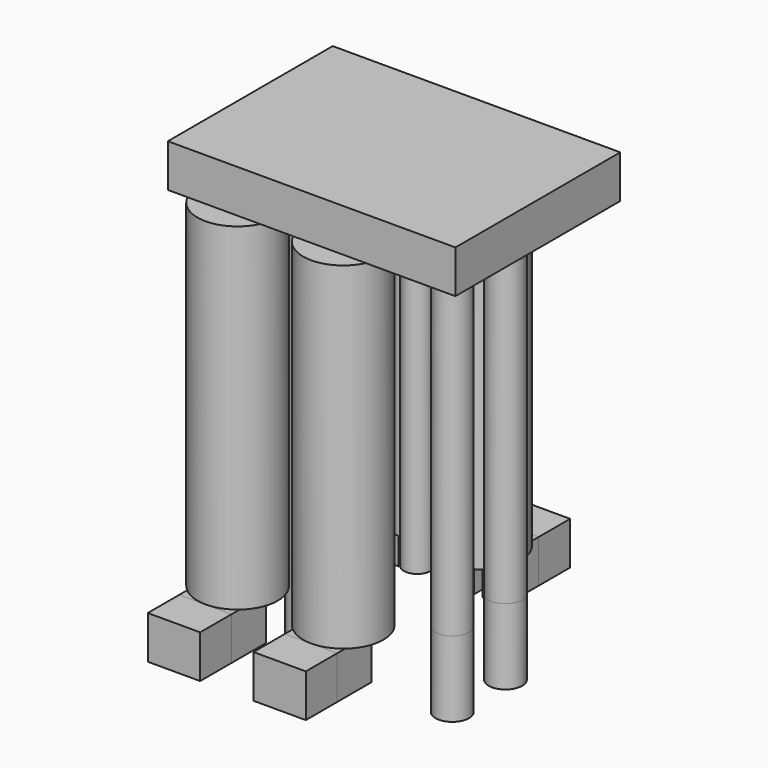
from build123d import *

# Parameters (mm, degrees)
F1_DEPTH = 1.27
F0_W     = 1.5494
F0_H     = 1.161047956
F0_R     = 0.4953
F2_DEPTH = 2.2352
F0_R_2   = 1.18745
F3_DEPTH = 9.9822
F4_DEPTH = 1.27
F5_DEPTH = 1.27
F6_START = 0.9906
F0_R_3   = 0.3937
F6_DEPTH = 8.9916
F8_DEPTH = 1.27
F9_DEPTH = 10.16


with BuildPart() as f1:
    # F0 (on Top) → F1 (new body)
    with BuildSketch(Plane.XY):
        with BuildLine():
            ThreePointArc((-0.1226388703, 3.7211), (0, 3.72745), (0.1226388703, 3.7211))
            Line((0.1226388703, 3.7211), (0.7747, 3.7211))
            Line((0.7747, 3.7211), (0.7747, 4.882147956))
            Line((0.7747, 4.882147956), (-0.7747, 4.882147956))
            Line((-0.7747, 4.882147956), (-0.7747, 3.7211))
            Line((-0.7747, 3.7211), (-0.1226388703, 3.7211))
        make_face()
    extrude(amount=-F1_DEPTH)


with BuildPart() as f1b:
    # F0 (on Top) → F1, piece 2 (new body)
    with BuildSketch(Plane.XY):
        with BuildLine():
            ThreePointArc((3.0045490859, 3.7211), (3.1271879561, 3.72745), (3.2498268264, 3.7211))
            Line((3.2498268264, 3.7211), (3.9018879561, 3.7211))
            Line((3.9018879561, 3.7211), (3.9018879561, 4.882147956))
            Line((3.9018879561, 4.882147956), (2.3524879561, 4.882147956))
            Line((2.3524879561, 4.882147956), (2.3524879561, 3.7211))
            Line((2.3524879561, 3.7211), (3.0045490859, 3.7211))
        make_face()
    extrude(amount=-F1_DEPTH)


with BuildPart() as f1c:
    # F0 (on Top) → F1, piece 3 (new body)
    with BuildSketch(Plane.XY):
        with Locations((0, -4.3142373906)):
            Rectangle(F0_W, F0_H)
    extrude(amount=-F1_DEPTH)


with BuildPart() as f1d:
    # F0 (on Top) → F1, piece 4 (new body)
    with BuildSketch(Plane.XY):
        with Locations((3.1271879561, -4.3142373906)):
            Rectangle(F0_W, F0_H)
    extrude(amount=-F1_DEPTH)


with BuildPart() as f2:
    # F0 (on Top) → F2 (new body)
    with BuildSketch(Plane.XY):
        with Locations((5.1339846104, -1.016)):
            Circle(F0_R)
    extrude(amount=-F2_DEPTH)


with BuildPart() as f2b:
    # F0 (on Top) → F2, piece 2 (new body)
    with BuildSketch(Plane.XY):
        with Locations((5.08, 1.016)):
            Circle(F0_R)
    extrude(amount=-F2_DEPTH)


with BuildPart() as f2c:
    # F0 (on Top) → F2, piece 3 (new body)
    with BuildSketch(Plane.XY):
        Circle(F0_R)
    extrude(amount=-F2_DEPTH)


with BuildPart() as f3:
    # F0 (on Top) → F3 (new body)
    with BuildSketch(Plane.XY):
        with Locations((0, -2.54)):
            Circle(F0_R_2)
        with Locations((3.1271879561, -2.54)):
            Circle(F0_R_2)
        with BuildLine():
            ThreePointArc((3.0045490859, 3.7211), (2.3320747642, 1.6580518641), (4.3146379561, 2.54))
            ThreePointArc((4.3146379561, 2.54), (4.0091360921, 3.3351131919), (3.2498268264, 3.7211))
            Line((3.2498268264, 3.7211), (3.0045490859, 3.7211))
        make_face()
        with BuildLine():
            ThreePointArc((-0.1226388703, 3.7211), (-0.7951131919, 1.6580518641), (1.18745, 2.54))
            ThreePointArc((1.18745, 2.54), (0.8819481359, 3.3351131919), (0.1226388703, 3.7211))
            Line((0.1226388703, 3.7211), (-0.1226388703, 3.7211))
        make_face()
    extrude(amount=F3_DEPTH)


with BuildPart() as f4:
    # F4 (new): a face of the model
    f4_faces = [f1.part.faces().sort_by_distance(p)[0] for p in [
        (0.4486694351, 3.7211, -0.635),
    ]]
    extrude(f4_faces, amount=F4_DEPTH)


with BuildPart() as f4b:
    # F4#2 (new): a face of the model
    f4_2_faces = [f1.part.faces().sort_by_distance(p)[0] for p in [
        (-0.4486694351, 3.7211, -0.635),
    ]]
    extrude(f4_2_faces, amount=F4_DEPTH)


with BuildPart() as f4c:
    # F4#3 (new): a face of the model
    f4_3_faces = [f1b.part.faces().sort_by_distance(p)[0] for p in [
        (2.678518521, 3.7211, -0.635),
    ]]
    extrude(f4_3_faces, amount=F4_DEPTH)


with BuildPart() as f4d:
    # F4#4 (new): a face of the model
    f4_4_faces = [f1b.part.faces().sort_by_distance(p)[0] for p in [
        (3.5758573913, 3.7211, -0.635),
    ]]
    extrude(f4_4_faces, amount=F4_DEPTH)


with BuildPart() as f5:
    # F5 (new): a face of the model
    f5_faces = [f1c.part.faces().sort_by_distance(p)[0] for p in [
        (0, -3.7337134127, -0.635),
    ]]
    extrude(f5_faces, amount=F5_DEPTH)


with BuildPart() as f5b:
    # F5#2 (new): a face of the model
    f5_2_faces = [f1d.part.faces().sort_by_distance(p)[0] for p in [
        (3.1271879561, -3.7337134127, -0.635),
    ]]
    extrude(f5_2_faces, amount=F5_DEPTH)


with BuildPart() as f6:
    # F0 (on Top) → F6 (new body)
    with BuildSketch(Plane.XY.offset(F6_START)):
        with Locations((3.81, -0.660923452)):
            Circle(F0_R_3)
    extrude(amount=F6_DEPTH)


with BuildPart() as f6b:
    # F0 (on Top) → F6, piece 2 (new body)
    with BuildSketch(Plane.XY.offset(F6_START)):
        with Locations((3.81, 0.6417604301)):
            Circle(F0_R_3)
    extrude(amount=F6_DEPTH)


with BuildPart() as f6c:
    # F0 (on Top) → F6, piece 3 (new body)
    with BuildSketch(Plane.XY.offset(F6_START)):
        with Locations((2.54, 0.6417604301)):
            Circle(F0_R_3)
    extrude(amount=F6_DEPTH)


with BuildPart() as f6d:
    # F0 (on Top) → F6, piece 4 (new body)
    with BuildSketch(Plane.XY.offset(F6_START)):
        with Locations((2.54, -0.635)):
            Circle(F0_R_3)
    extrude(amount=F6_DEPTH)


with BuildPart() as f6e:
    # F0 (on Top) → F6, piece 5 (new body)
    with BuildSketch(Plane.XY.offset(F6_START)):
        with Locations((1.27, -0.635)):
            Circle(F0_R_3)
    extrude(amount=F6_DEPTH)


with BuildPart() as f6f:
    # F0 (on Top) → F6, piece 6 (new body)
    with BuildSketch(Plane.XY.offset(F6_START)):
        with Locations((1.27, 0.635)):
            Circle(F0_R_3)
    extrude(amount=F6_DEPTH)


with BuildPart() as f8:
    # F7 (on face) → F8 (new body)
    with BuildSketch(Plane.XY.offset(9.9822)):
        with BuildLine():
            Line((6.85165, -3.048), (6.85165, 3.048))
            Line((6.85165, 3.048), (1.0733002853, 3.048))
            ThreePointArc((1.0733002853, 3.048), (0, 1.35255), (-1.0733002853, 3.048))
            Line((-1.0733002853, 3.048), (-1.65735, 3.048))
            Line((-1.65735, 3.048), (-1.65735, -3.048))
            Line((-1.65735, -3.048), (6.85165, -3.048))
        make_face()
        with BuildLine():
            ThreePointArc((-1.0733002853, 3.048), (0, 1.35255), (1.0733002853, 3.048))
            Line((1.0733002853, 3.048), (-1.0733002853, 3.048))
        make_face()
    extrude(amount=F8_DEPTH)


with BuildPart() as f9:
    # F0 (on Top) → F9 (new body)
    with BuildSketch(Plane.XY):
        Circle(F0_R)
    extrude(amount=F9_DEPTH)


with BuildPart() as f9b:
    # F0 (on Top) → F9, piece 2 (new body)
    with BuildSketch(Plane.XY):
        with Locations((5.08, 1.016)):
            Circle(F0_R)
    extrude(amount=F9_DEPTH)


with BuildPart() as f9c:
    # F0 (on Top) → F9, piece 3 (new body)
    with BuildSketch(Plane.XY):
        with Locations((5.1339846104, -1.016)):
            Circle(F0_R)
    extrude(amount=F9_DEPTH)


solid = Compound([f1.part, f1b.part, f1c.part, f1d.part, f2.part, f2b.part, f2c.part, f3.part, f4.part, f4b.part, f4c.part, f4d.part, f5.part, f5b.part, f6.part, f6b.part, f6c.part, f6d.part, f6e.part, f6f.part, f8.part, f9.part, f9b.part, f9c.part])
